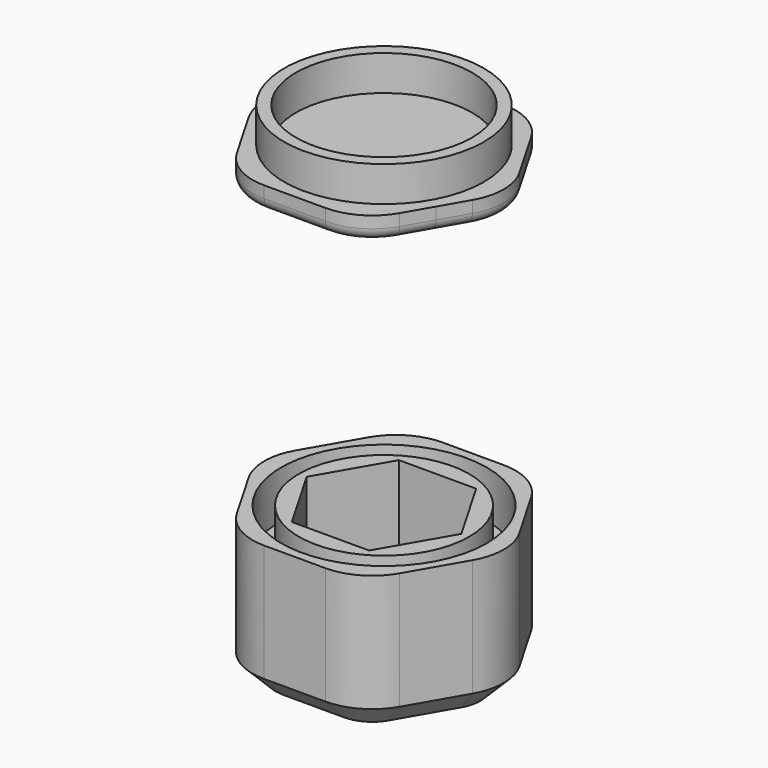
from build123d import *

# Parameters (mm, degrees)
F1_DEPTH = 12
F0_R     = 3.5
F2_DEPTH = 2
F3_R     = 5
F4_R     = 8.75
F4_R_2   = 7.25
F5_DEPTH = 4
F7_R     = 8.5
F7_R_2   = 7.5
F8_DEPTH = 5
F9_DEPTH = 2
F10_R    = 1
F11_SIZE = 2


with BuildPart() as f1:
    # F0 (on Top) → F1 (new body)
    with BuildSketch(Plane.XY):
        Polygon((5.4848275573, 9.5), (-5.4848275573, 9.5), (-10.9696551146, 0), (-5.4848275573, -9.5), (5.4848275573, -9.5), (10.9696551146, 0), align=None)
        Polygon((3.2908965344, 5.7), (6.5817930688, 0), (3.2908965344, -5.7), (-3.2908965344, -5.7), (-6.5817930688, 0), (-3.2908965344, 5.7), align=None, mode=Mode.SUBTRACT)
    extrude(amount=F1_DEPTH)

    # F0 (on Top) → F2 (join)
    with BuildSketch(Plane.XY):
        Polygon((3.2908965344, -5.7), (6.5817930688, 0), (3.2908965344, 5.7), (-3.2908965344, 5.7), (-6.5817930688, 0), (-3.2908965344, -5.7), align=None)
        Circle(F0_R, mode=Mode.SUBTRACT)
    extrude(amount=F2_DEPTH)

    # F3
    f3_edges = [f1.edges().sort_by_distance(p)[0] for p in [
        (-5.484828, 9.5, 6),
        (-10.969655, 0, 6),
        (-5.484828, -9.5, 6),
        (5.484828, -9.5, 6),
        (10.969655, 0, 6),
        (5.484828, 9.5, 6),
    ]]
    fillet(f3_edges, radius=F3_R)

    # F4 (on face) → F5 (cut)
    with BuildSketch(Plane.XY.offset(12)):
        Circle(F4_R)
        Circle(F4_R_2, mode=Mode.SUBTRACT)
    extrude(amount=-F5_DEPTH, mode=Mode.SUBTRACT)

    # F11
    f11_edges = [f1.edges().sort_by_distance(p)[0] for p in [
        (0, 9.5, 0),
        (5.098076, 8.830127, 0),
    ]]
    chamfer(f11_edges, length=F11_SIZE)


with BuildPart() as f8:
    # F7 (on offset) → F8 (new body)
    with BuildSketch(Plane.XY.offset(37)):
        Circle(F7_R)
        Circle(F7_R_2, mode=Mode.SUBTRACT)
    extrude(amount=F8_DEPTH)

    # F7 (on offset) → F9 (join)
    with BuildSketch(Plane.XY.offset(37)):
        with BuildLine():
            ThreePointArc((8.2272414301, 4.749999837), (4.7500000815, 8.2272412889), (0, 9.5))
            ThreePointArc((0, 9.5), (-4.75, 8.227241336), (-8.227241336, 4.75))
            ThreePointArc((-8.227241336, 4.75), (-9.5, 9.41e-08), (-8.2272414301, -4.749999837))
            ThreePointArc((-8.2272414301, -4.749999837), (-4.7500000815, -8.2272412889), (0, -9.5))
            ThreePointArc((0, -9.5), (4.75, -8.227241336), (8.227241336, -4.75))
            ThreePointArc((8.227241336, -4.75), (9.1762953497, -2.4587809285), (9.5, 0))
            ThreePointArc((9.5, 0), (9.1762953741, 2.4587808376), (8.2272414301, 4.749999837))
        make_face()
        Circle(F7_R, mode=Mode.SUBTRACT)
        Circle(F7_R)
        Circle(F7_R_2, mode=Mode.SUBTRACT)
        Circle(F7_R_2)
        with BuildLine():
            Line((6.9282032303, -7), (8.227241336, -4.75))
            ThreePointArc((8.227241336, -4.75), (4.75, -8.227241336), (0, -9.5))
            Line((0, -9.5), (2.5980762114, -9.5))
            ThreePointArc((2.5980762114, -9.5), (5.0980762114, -8.8301270189), (6.9282032303, -7))
        make_face()
        with BuildLine():
            ThreePointArc((0, -9.5), (-4.7500000815, -8.2272412889), (-8.2272414301, -4.749999837))
            Line((-8.2272414301, -4.749999837), (-6.9282032303, -7))
            ThreePointArc((-6.9282032303, -7), (-5.0980762114, -8.8301270189), (-2.5980762114, -9.5))
            Line((-2.5980762114, -9.5), (0, -9.5))
        make_face()
        with BuildLine():
            ThreePointArc((-8.2272414301, -4.749999837), (-9.5, 9.41e-08), (-8.227241336, 4.75))
            Line((-8.227241336, 4.75), (-9.5262794416, 2.5))
            ThreePointArc((-9.5262794416, 2.5), (-10.1961524227, 0), (-9.5262794416, -2.5))
            Line((-9.5262794416, -2.5), (-8.2272414301, -4.749999837))
        make_face()
        with BuildLine():
            Line((0, 9.5), (-2.5980762114, 9.5))
            ThreePointArc((-2.5980762114, 9.5), (-5.0980762114, 8.8301270189), (-6.9282032303, 7))
            Line((-6.9282032303, 7), (-8.227241336, 4.75))
            ThreePointArc((-8.227241336, 4.75), (-4.75, 8.227241336), (0, 9.5))
        make_face()
        with BuildLine():
            Line((2.5980762114, 9.5), (0, 9.5))
            ThreePointArc((0, 9.5), (4.7500000815, 8.2272412889), (8.2272414301, 4.749999837))
            Line((8.2272414301, 4.749999837), (6.9282032303, 7))
            ThreePointArc((6.9282032303, 7), (5.0980762114, 8.8301270189), (2.5980762114, 9.5))
        make_face()
        with BuildLine():
            Line((9.5262794416, 2.5), (8.2272414301, 4.749999837))
            ThreePointArc((8.2272414301, 4.749999837), (9.1762953741, 2.4587808376), (9.5, 0))
            ThreePointArc((9.5, 0), (9.1762953497, -2.4587809285), (8.227241336, -4.75))
            Line((8.227241336, -4.75), (9.5262794416, -2.5))
            ThreePointArc((9.5262794416, -2.5), (10.1961524227, 0), (9.5262794416, 2.5))
        make_face()
    extrude(amount=F9_DEPTH)

    # F10
    f10_edges = [f8.edges().sort_by_distance(p)[0] for p in [
        (5.098076, -8.830127, 37),
        (8.227241, -4.75, 37),
        (10.196152, 0, 37),
        (8.227241, 4.75, 37),
        (5.098076, 8.830127, 37),
        (0, 9.5, 37),
        (-5.098076, 8.830127, 37),
        (-8.227241, 4.75, 37),
        (-10.196152, 0, 37),
        (-8.227241, -4.75, 37),
        (-5.098076, -8.830127, 37),
        (0, -9.5, 37),
    ]]
    fillet(f10_edges, radius=F10_R)


solid = Compound([f1.part, f8.part])
